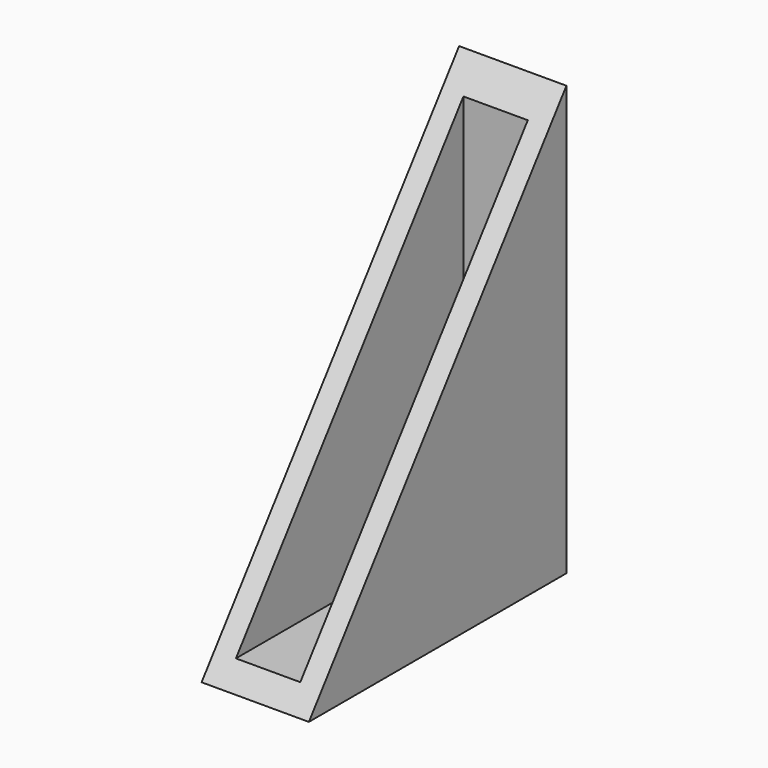
from build123d import *

# Parameters (mm, degrees)
F1_DEPTH = 25.4
F2_T     = -5.08


with BuildPart() as f1:
    # F0 (on Right) → F1 (new body)
    with BuildSketch(Plane.YZ):
        Polygon((-76.2, -25.698823), (0, -25.698823), (0, 75.901177), align=None)
    extrude(amount=F1_DEPTH)

    # F2
    f2_openings = [f1.faces().sort_by_distance(p)[0] for p in [
        (12.7, -38.1, 25.101177),
    ]]
    offset(amount=F2_T, openings=f2_openings)


solid = f1.part
